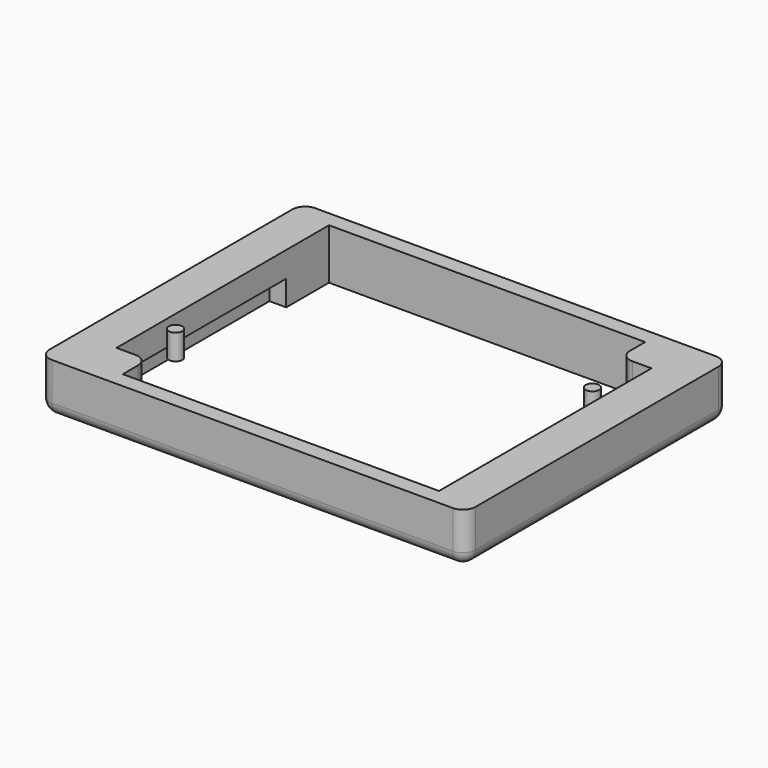
from build123d import *

# Parameters (mm, degrees)
F0_W     = 85.5472
F0_H     = 66.04
F0_W_2   = 69.85
F0_H_2   = 59.69
F1_DEPTH = 10.16
F2_W     = 6.35
F2_H     = 6.35
F3_DEPTH = 5.08
F2_R     = 1.35255
F4_R     = 2.54
F5_W     = 3.3655
F5_H     = 38.227
F5_W_2   = 69.85
F6_DEPTH = 5.08
F7_R     = 2.54


with BuildPart() as f1:
    # F0 (on Top) → F1 (new body)
    with BuildSketch(Plane.XY):
        Rectangle(F0_W, F0_H)
        Rectangle(F0_W_2, F0_H_2, mode=Mode.SUBTRACT)
    extrude(amount=F1_DEPTH)

    # F2 (on face) → F3 (join)
    with BuildSketch(Plane.XY.offset(10.16)):
        with Locations((-31.75, -26.67)):
            Rectangle(F2_W, F2_H)
        with Locations((31.75, 26.67)):
            Rectangle(F2_W, F2_H)
    extrude(amount=-F3_DEPTH)

    # F4
    f4_edges = [f1.edges().sort_by_distance(p)[0] for p in [
        (28.575, 23.495, 7.62),
        (-28.575, -23.495, 7.62),
    ]]
    fillet(f4_edges, radius=F4_R)

    # F5 (on face) → F6 (cut)
    with BuildSketch(Plane(origin=(0, 0, 0), x_dir=(1, 0, 0), z_dir=(0, 0, -1))):
        with Locations((36.60775, 0)):
            Rectangle(F5_W, F5_H)
        Rectangle(F5_W_2, F5_H)
        with Locations((-36.60775, 0)):
            Rectangle(F5_W, F5_H)
    extrude(amount=-F6_DEPTH, mode=Mode.SUBTRACT)

    # F7
    f7_edges = [f1.edges().sort_by_distance(p)[0] for p in [
        (42.7736, -33.02, 5.08),
        (42.7736, 33.02, 5.08),
        (-42.7736, -33.02, 5.08),
        (-42.7736, 33.02, 5.08),
        (0, -33.02, 0),
        (42.7736, 0, 0),
        (0, 33.02, 0),
        (-42.7736, 0, 0),
    ]]
    fillet(f7_edges, radius=F7_R)


with BuildPart() as f3:
    # F2 (on face) → F3, piece 2 (new body)
    with BuildSketch(Plane.XY.offset(10.16)):
        with Locations((-31.75, -12.6365)):
            Circle(F2_R)
    extrude(amount=-F3_DEPTH)


with BuildPart() as f3b:
    # F2 (on face) → F3, piece 3 (new body)
    with BuildSketch(Plane.XY.offset(10.16)):
        with Locations((31.75, 12.6365)):
            Circle(F2_R)
    extrude(amount=-F3_DEPTH)


solid = Compound([f1.part, f3.part, f3b.part])
